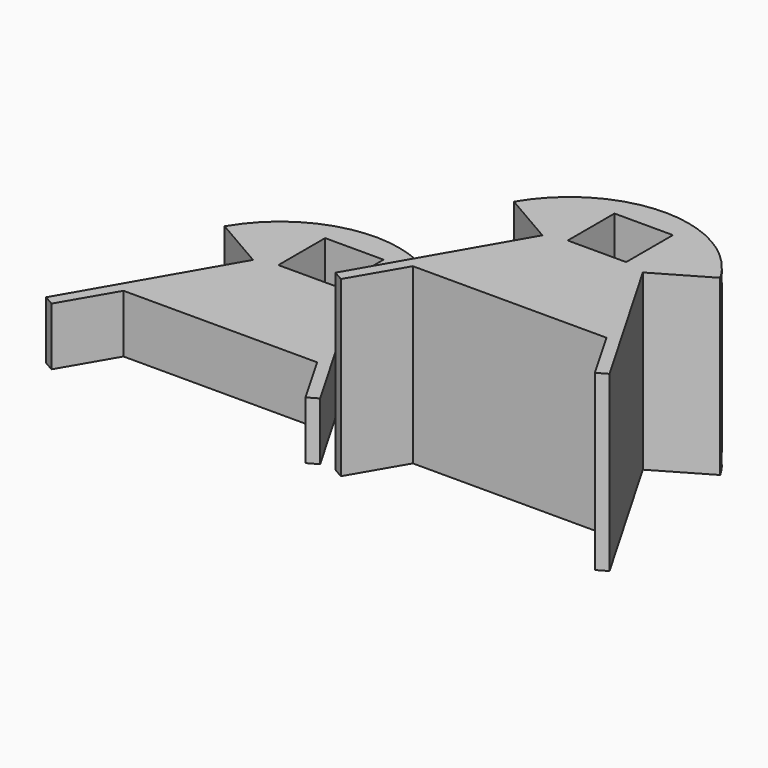
from build123d import *

# Parameters (mm, degrees)
F0_W     = 20.2
F0_H     = 20.2
F1_DEPTH = 20
F2_DEPTH = 60


with BuildPart() as f1:
    # F0 (on Top) → F1 (new body)
    with BuildSketch(Plane.XY):
        with BuildLine():
            add(Edge.make_bspline(
                [(-35.636846, 21.964007), (-27.748181, 35.338641), (-0.006908, 49.667953), (27.746665, 35.475037), (35.632556, 21.979315)],
                knots=[0, 0, 0, 0, 41.149113, 82.286858, 82.286858, 82.286858, 82.286858], degree=3))
            Line((-35.636846, 21.964007), (-17.367529, 11.393614))
            Line((-17.367529, 11.393614), (-47.336736, -40.540119))
            Line((-47.336736, -40.540119), (-43.873478, -42.527031))
            Line((-43.873478, -42.527031), (-33.382716, -24.530699))
            Line((-33.382716, -24.530699), (33.52769, -24.530699))
            Line((33.52769, -24.530699), (43.889076, -42.505143))
            Line((43.889076, -42.505143), (47.372841, -40.519397))
            Line((47.372841, -40.519397), (17.36022, 11.371257))
            Line((17.36022, 11.371257), (35.632556, 21.979315))
        make_face()
        with Locations((-0.034073, 23.400404)):
            Rectangle(F0_W, F0_H, mode=Mode.SUBTRACT)
    extrude(amount=F1_DEPTH)


with BuildPart() as f2:
    # F0 (on Top) → F2 (new body)
    with BuildSketch(Plane.XY):
        with BuildLine():
            add(Edge.make_bspline(
                [(-35.636846, 21.964007), (-27.748181, 35.338641), (-0.006908, 49.667953), (27.746665, 35.475037), (35.632556, 21.979315)],
                knots=[0, 0, 0, 0, 41.149113, 82.286858, 82.286858, 82.286858, 82.286858], degree=3))
            Line((-35.636846, 21.964007), (-17.367529, 11.393614))
            Line((-17.367529, 11.393614), (-47.336736, -40.540119))
            Line((-47.336736, -40.540119), (-43.873478, -42.527031))
            Line((-43.873478, -42.527031), (-33.382716, -24.530699))
            Line((-33.382716, -24.530699), (33.52769, -24.530699))
            Line((33.52769, -24.530699), (43.889076, -42.505143))
            Line((43.889076, -42.505143), (47.372841, -40.519397))
            Line((47.372841, -40.519397), (17.36022, 11.371257))
            Line((17.36022, 11.371257), (35.632556, 21.979315))
        make_face()
        with Locations((-0.034073, 23.400404)):
            Rectangle(F0_W, F0_H, mode=Mode.SUBTRACT)
    extrude(amount=F2_DEPTH)


with BuildPart() as f2_1:
    # F3: moved
    add(f2.part.moved(Location((100, 0, 0))))


solid = Compound([f1.part, f2_1.part])
